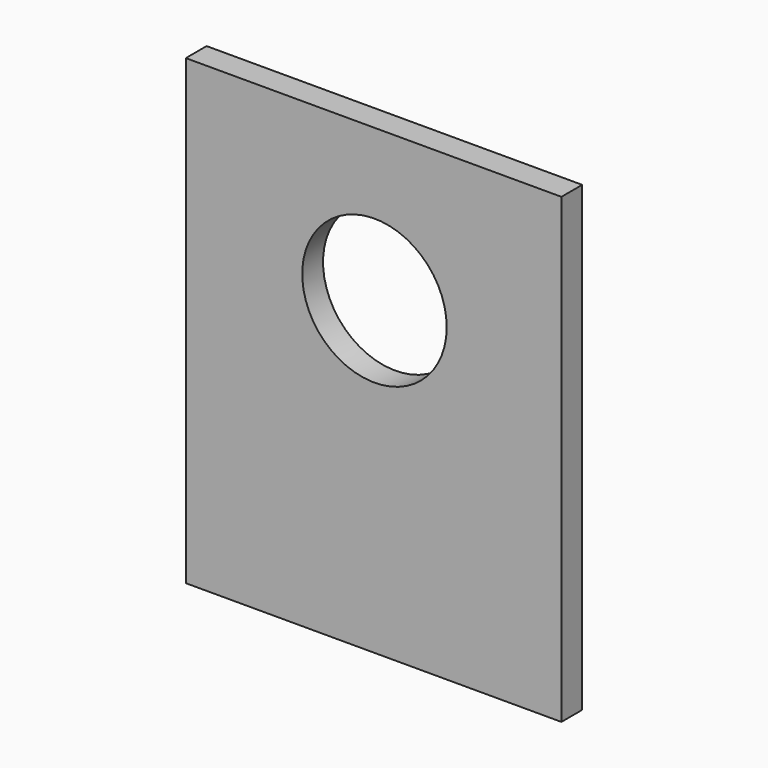
from build123d import *

# Parameters (mm, degrees)
SKETCH011_R  = 50
PAD009_DEPTH = 40
BOX003_W     = 260
BOX003_H     = 18
BOX003_DEPTH = 320


with BuildPart() as body009:
    # Sketch011 → Pad009 (new body)
    with BuildSketch(Plane.XZ):
        with Locations((98.600952, 204.673477)):
            Circle(SKETCH011_R)
    extrude(amount=PAD009_DEPTH)


with BuildPart() as body009_1:
    # Body009 placement: moved
    add(body009.part.moved(Location((0, -212, 0))))


with BuildPart() as obj1:
    # Box003 → Box003 (new body)
    with BuildSketch(Plane(origin=(-32, -247, -10), x_dir=(1, 0, 0), z_dir=(0, 0, 1))):
        with Locations((130, 9)):
            Rectangle(BOX003_W, BOX003_H)
    extrude(amount=BOX003_DEPTH)

    # Cut003: cut Body009
    add(body009_1.part, mode=Mode.SUBTRACT)


solid = obj1.part
